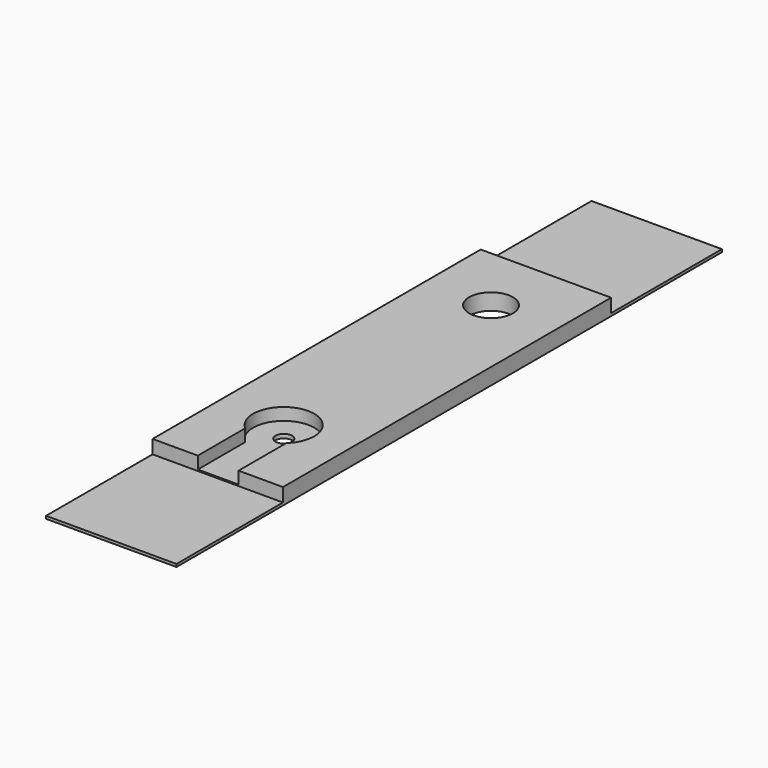
from build123d import *

# Parameters (mm, degrees)
SKETCH_W        = 48
SKETCH_H        = 250.999997
SKETCH_R        = 8.05
SKETCH_R_2      = 3.05
PAD_DEPTH       = 6
POCKET_DEPTH    = 4.5
SKETCH002_W     = 48.1
SKETCH002_H     = 48.999997
POCKET001_DEPTH = 5.001
SKETCH003_W     = 48.1
SKETCH003_H     = 52
POCKET002_DEPTH = 5.001


with BuildPart() as part:
    # Sketch → Pad (new body)
    with BuildSketch(Plane.XY):
        with Locations((-24, 125.499994)):
            Rectangle(SKETCH_W, SKETCH_H)
        with Locations((-24, 174.761047)):
            Circle(SKETCH_R, mode=Mode.SUBTRACT)
        with Locations((-24, 79.409981)):
            Circle(SKETCH_R_2, mode=Mode.SUBTRACT)
    extrude(amount=-PAD_DEPTH)

    # Sketch001 → Pocket (cut)
    with BuildSketch(Plane.XY):
        with BuildLine():
            Line((-31.346662, 47.787562), (-16.346662, 47.787562))
            Line((-16.346662, 47.787562), (-16.346662, 71.017092))
            ThreePointArc((-16.346662, 71.017092), (-24.104532, 90.522743), (-31.346662, 70.819786))
            Line((-31.346662, 70.819786), (-31.346662, 47.787562))
        make_face()
    extrude(amount=-POCKET_DEPTH, mode=Mode.SUBTRACT)

    # Sketch002 → Pocket001 (cut, through all)
    with BuildSketch(Plane.XY.offset(-5)):
        with Locations((-23.95, 24.499994)):
            Rectangle(SKETCH002_W, SKETCH002_H)
    extrude(amount=POCKET001_DEPTH, mode=Mode.SUBTRACT)

    # Sketch003 → Pocket002 (cut, through all)
    with BuildSketch(Plane.XY.offset(-5)):
        with Locations((-23.95, 226)):
            Rectangle(SKETCH003_W, SKETCH003_H)
    extrude(amount=POCKET002_DEPTH, mode=Mode.SUBTRACT)


solid = part.part
